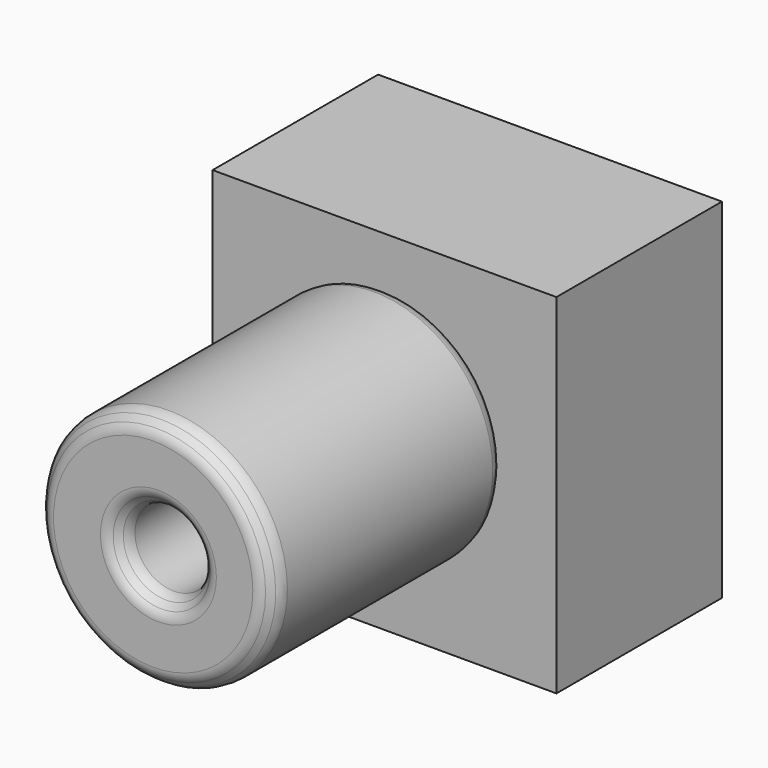
from build123d import *

# Parameters (mm, degrees)
F0_R     = 44.4983776942
F1_DEPTH = 110.49
F2_R     = 14.5195610464
F3_DEPTH = 202.946
F4_SIZE  = 5.08
F5_R     = 5.08
F6_W     = 128.777243197
F6_H     = 130.6803599
F7_DEPTH = 77.47


with BuildPart() as f1:
    # F0 (on Front) → F1 (new body)
    with BuildSketch(Plane.XZ):
        Circle(F0_R)
    extrude(amount=F1_DEPTH)

    # F2 (on Front) → F3 (cut)
    with BuildSketch(Plane.XZ):
        with Locations((1.9654189236, 0)):
            Circle(F2_R)
    extrude(amount=F3_DEPTH, mode=Mode.SUBTRACT)

    # F4
    f4_edges = [f1.edges().sort_by_distance(p)[0] for p in [
        (-12.554142, -110.49, 0),
        (-12.554142, 0, 0),
        (-44.498378, -110.49, 0),
        (-44.498378, 0, 0),
    ]]
    chamfer(f4_edges, length=F4_SIZE)

    # F5
    f5_edges = [f1.edges().sort_by_distance(p)[0] for p in [
        (-44.498378, -105.41, 0),
        (-39.418378, -110.49, 0),
        (-44.498378, -5.08, 0),
        (-39.418378, 0, 0),
        (-12.554142, -105.41, 0),
        (-17.634142, -110.49, 0),
        (19.02498, -2.54, 0),
        (-17.634142, 0, 0),
        (-12.554142, -5.08, 0),
    ]]
    fillet(f5_edges, radius=F5_R)

    # F6 (on Front) → F7 (join)
    with BuildSketch(Plane.XZ):
        with Locations((-1.7445199192, -5.1542632282)):
            Rectangle(F6_W, F6_H)
    extrude(amount=-F7_DEPTH)


solid = f1.part
